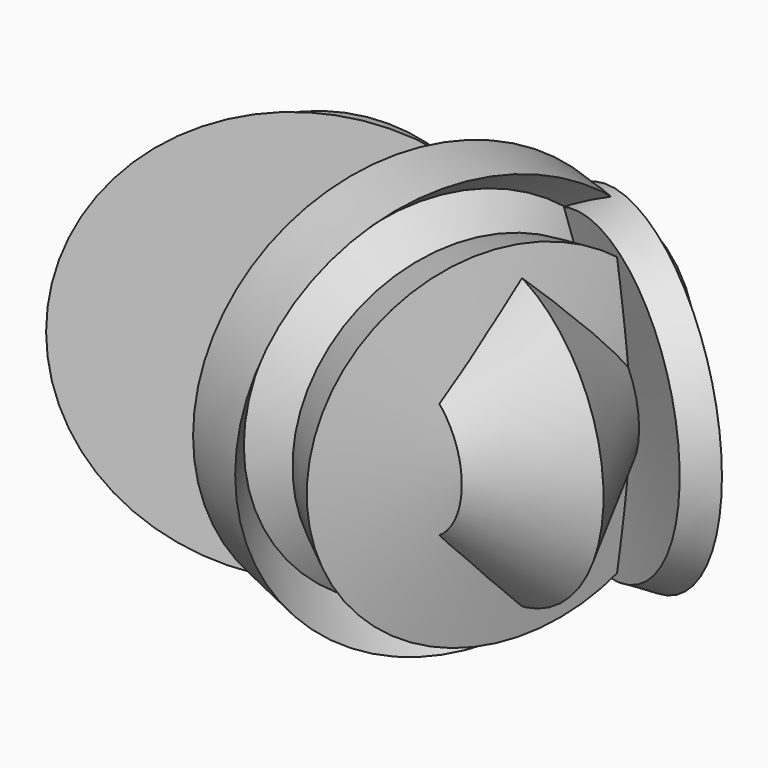
from build123d import *


with BuildPart() as f1:
    # F0 (on Top) → F1 (revolve)
    with BuildSketch(Plane.XY):
        Polygon((-41.363727, 64.106137), (-43.500599, 36.632076), (-40.447924, -10.989628), (20.300273, 26.252987), (-20.910814, 42.737424), align=None)
    revolve(axis=Axis((-61.333209, -34.267869, 0), (0.522663, -0.85254, 0)))


with BuildPart() as f2:
    # F0 (on Top) → F2 (revolve)
    with BuildSketch(Plane.XY):
        Polygon((-20.910814, 42.737424), (20.300273, 26.252987), (8.700117, 52.200712), (-20.910814, 58.916591), align=None)
    revolve(axis=Axis((30.221465, -21.216084, 0), (0.436046, 0.899924, 0)))


with BuildPart() as f3:
    # F0 (on Top) → F3 (revolve)
    with BuildSketch(Plane.XY):
        Polygon((8.700117, 52.200712), (20.300273, 26.252987), (37.395246, -6.410618), (42.890061, 11.905423), (31.900436, 54.032315), (55.175854, 60.104163), (21.21608, 72.348356), align=None)
    revolve(axis=Axis((11.523842, -31.289906, 0), (0.925058, -0.379825, 0)))


with BuildPart() as f4:
    # F0 (on Top) → F4 (revolve)
    with BuildSketch(Plane.XY):
        Polygon((20.300273, 26.252987), (-40.447924, -10.989628), (-14.194934, -59.527136), (0, -26.558263), align=None)
    revolve(axis=Axis((40.142654, 2.747403, 0), (-0.287348, -0.957826, 0)))


with BuildPart() as f5:
    # F0 (on Top) → F5 (revolve)
    with BuildSketch(Plane.XY):
        Polygon((42.890061, 11.905423), (37.395246, -6.410618), (57.54289, -3.052677), (57.54289, -35.105746), (74.63786, 34.800474), (51.13228, 37.547879), align=None)
    revolve(axis=Axis((11.523842, -31.289906, 0), (0.925058, -0.379825, 0)))


solid = Compound([f1.part, f2.part, f3.part, f4.part, f5.part])
